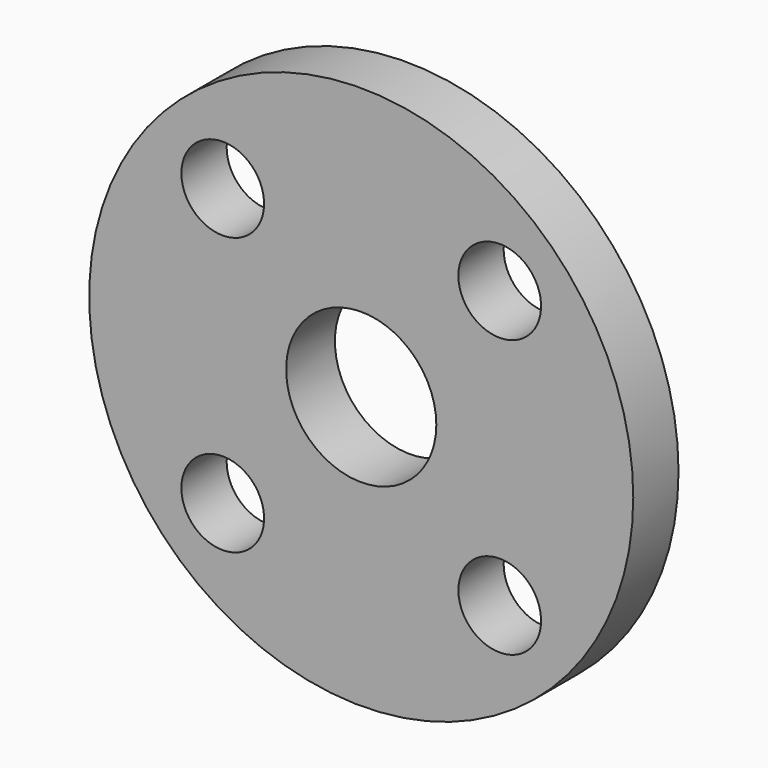
from build123d import *

# Parameters (mm, degrees)
F0_R     = 62.5
F0_R_2   = 17.25
F1_DEPTH = 14
F2_R     = 62.5
F2_R_2   = 33.5
F3_DEPTH = 1
F4_R     = 9.5
F5_DEPTH = 14.001


with BuildPart() as f1:
    # F0 (on Front) → F1 (new body)
    with BuildSketch(Plane.XZ):
        Circle(F0_R)
        Circle(F0_R_2, mode=Mode.SUBTRACT)
    extrude(amount=F1_DEPTH)

    # F2 (on face) → F3 (cut)
    with BuildSketch(Plane(origin=(0, 0, 0), x_dir=(-1, 0, 0), z_dir=(0, 1, 0))):
        Circle(F2_R)
        Circle(F2_R_2, mode=Mode.SUBTRACT)
    extrude(amount=-F3_DEPTH, mode=Mode.SUBTRACT)

    # F4 (on face) → F5 (cut, through all)
    with BuildSketch(Plane(origin=(0, 0, 0), x_dir=(-1, 0, 0), z_dir=(0, 1, 0))):
        with Locations((-31.819805, 31.819805)):
            Circle(F4_R)
        with Locations((-31.819805, -31.819805)):
            Circle(F4_R)
        with Locations((31.819805, -31.819805)):
            Circle(F4_R)
        with Locations((31.819805, 31.819805)):
            Circle(F4_R)
    extrude(amount=-F5_DEPTH, mode=Mode.SUBTRACT)


solid = f1.part
